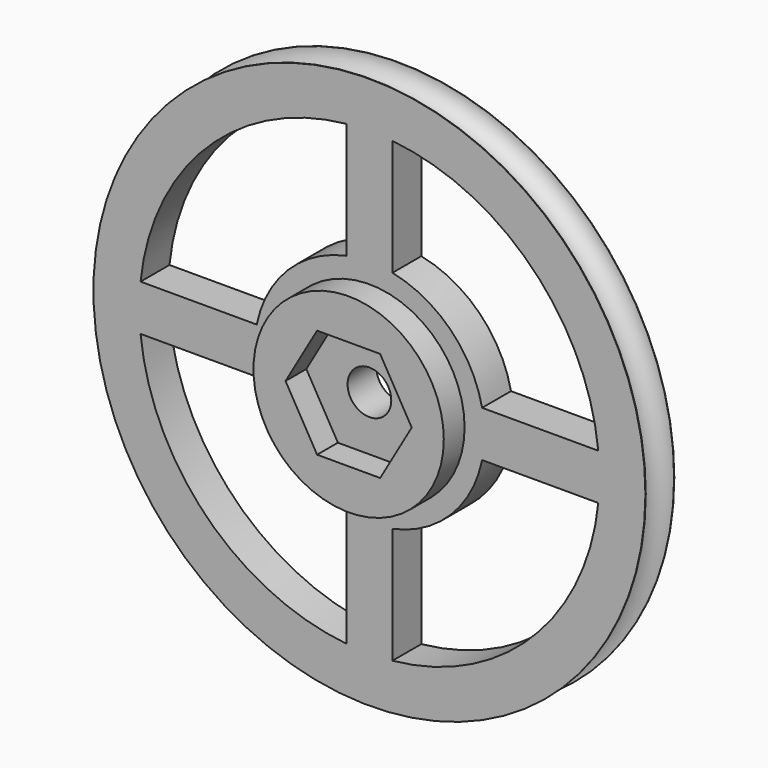
from build123d import *

# Parameters (mm, degrees)
F0_R     = 30.48
F0_R_2   = 10.509652
F1_DEPTH = 3.9878
F2_R     = 1.955439
F0_R_3   = 2.413
F4_DEPTH = 3.9878
F5_DEPTH = 6.858


with BuildPart() as f1:
    # F0 (on Front) → F1 (new body)
    with BuildSketch(Plane.XZ):
        Circle(F0_R)
        with BuildLine():
            Line((-25.272681, -2.54), (-12.443408, -2.54))
            ThreePointArc((-12.443408, -2.54), (-8.980256, -8.980256), (-2.54, -12.443408))
            Line((-2.54, -12.443408), (-2.54, -25.272681))
            ThreePointArc((-2.54, -25.272681), (-17.960512, -17.960512), (-25.272681, -2.54))
        make_face(mode=Mode.SUBTRACT)
        with BuildLine():
            Line((2.54, -25.272681), (2.54, -12.443408))
            ThreePointArc((2.54, -12.443408), (8.980256, -8.980256), (12.443408, -2.54))
            Line((12.443408, -2.54), (25.272681, -2.54))
            ThreePointArc((25.272681, -2.54), (17.960512, -17.960512), (2.54, -25.272681))
        make_face(mode=Mode.SUBTRACT)
        with BuildLine():
            Line((-2.54, 25.272681), (-2.54, 12.443408))
            ThreePointArc((-2.54, 12.443408), (-8.980256, 8.980256), (-12.443408, 2.54))
            Line((-12.443408, 2.54), (-25.272681, 2.54))
            ThreePointArc((-25.272681, 2.54), (-17.960512, 17.960512), (-2.54, 25.272681))
        make_face(mode=Mode.SUBTRACT)
        Circle(F0_R_2, mode=Mode.SUBTRACT)
        with BuildLine():
            Line((25.272681, 2.54), (12.443408, 2.54))
            ThreePointArc((12.443408, 2.54), (8.980256, 8.980256), (2.54, 12.443408))
            Line((2.54, 12.443408), (2.54, 25.272681))
            ThreePointArc((2.54, 25.272681), (17.960512, 17.960512), (25.272681, 2.54))
        make_face(mode=Mode.SUBTRACT)
    extrude(amount=F1_DEPTH)

    # F2 (on Top) → F3 (revolve, cut)
    with BuildSketch(Plane.XY):
        with Locations((30.477559, -1.981105)):
            Circle(F2_R)
    revolve(axis=Axis((0, 8.885407, 0), (0, 1, 0)), mode=Mode.SUBTRACT)

    # F0 (on Front) → F4 (join)
    with BuildSketch(Plane.XZ):
        Circle(F0_R_2)
        Polygon((-3.482865, 6.0325), (3.482865, 6.0325), (6.965731, 0), (3.482865, -6.0325), (-3.482865, -6.0325), (-6.965731, 0), align=None, mode=Mode.SUBTRACT)
        Polygon((6.965731, 0), (3.482865, 6.0325), (-3.482865, 6.0325), (-6.965731, 0), (-3.482865, -6.0325), (3.482865, -6.0325), align=None)
        Circle(F0_R_3, mode=Mode.SUBTRACT)
    extrude(amount=F4_DEPTH)

    # F0 (on Front) → F5 (join)
    with BuildSketch(Plane.XZ):
        Circle(F0_R_2)
        Polygon((-3.482865, 6.0325), (3.482865, 6.0325), (6.965731, 0), (3.482865, -6.0325), (-3.482865, -6.0325), (-6.965731, 0), align=None, mode=Mode.SUBTRACT)
    extrude(amount=F5_DEPTH)


solid = f1.part
